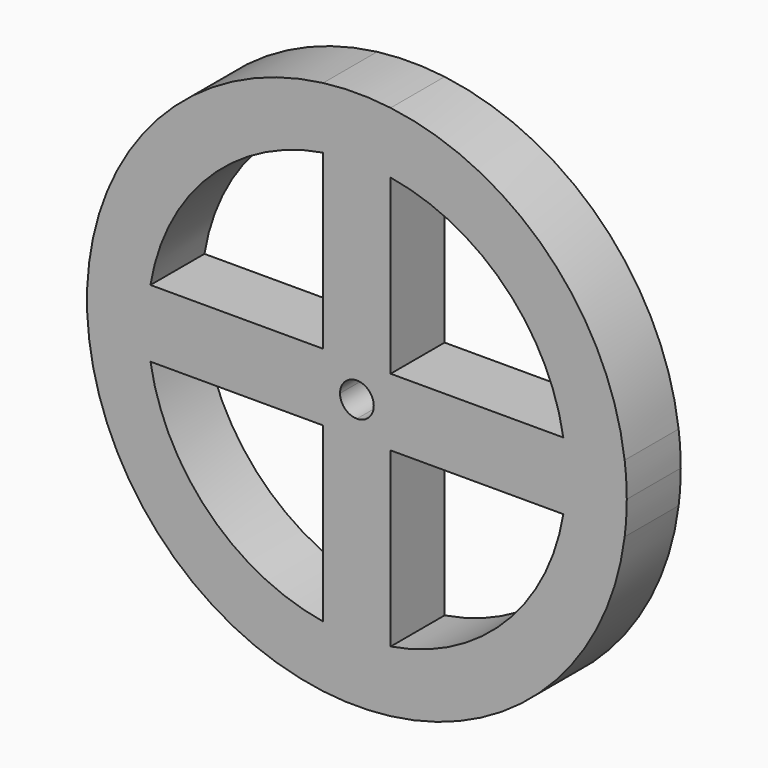
from build123d import *

# Parameters (mm, degrees)
F1_DEPTH = 10


with BuildPart() as f1:
    # F0 (on Front) → F1 (new body)
    with BuildSketch(Plane.XZ):
        with BuildLine():
            ThreePointArc((39.68627, -5), (39.92149, -2.504917), (40, 0))
            ThreePointArc((40, 0), (39.92149, 2.504917), (39.68627, 5))
            ThreePointArc((39.68627, 5), (28.284271, 28.284271), (5, 39.68627))
            ThreePointArc((5, 39.68627), (0, 40), (-5, 39.68627))
            ThreePointArc((-5, 39.68627), (-28.284271, 28.284271), (-39.68627, 5))
            ThreePointArc((-39.68627, 5), (-40, 0), (-39.68627, -5))
            ThreePointArc((-39.68627, -5), (-28.284271, -28.284271), (-5, -39.68627))
            ThreePointArc((-5, -39.68627), (0, -40), (5, -39.68627))
            ThreePointArc((5, -39.68627), (28.284271, -28.284271), (39.68627, -5))
        make_face()
        with BuildLine():
            ThreePointArc((-5, -30.594117), (-21.92031, -21.92031), (-30.594117, -5))
            Line((-30.594117, -5), (-5, -5))
            Line((-5, -5), (-5, -30.594117))
        make_face(mode=Mode.SUBTRACT)
        with BuildLine():
            Line((5, -30.594117), (5, -5))
            Line((5, -5), (30.594117, -5))
            ThreePointArc((30.594117, -5), (21.92031, -21.92031), (5, -30.594117))
        make_face(mode=Mode.SUBTRACT)
        with BuildLine():
            ThreePointArc((-30.594117, 5), (-21.92031, 21.92031), (-5, 30.594117))
            Line((-5, 30.594117), (-5, 5))
            Line((-5, 5), (-30.594117, 5))
        make_face(mode=Mode.SUBTRACT)
        with BuildLine():
            ThreePointArc((0, 2.5), (1.767767, 1.767767), (2.5, 0))
            ThreePointArc((2.5, 0), (1.767767, -1.767767), (0, -2.5))
            ThreePointArc((0, -2.5), (-1.767767, -1.767767), (-2.5, 0))
            ThreePointArc((-2.5, 0), (-1.767767, 1.767767), (0, 2.5))
        make_face(mode=Mode.SUBTRACT)
        with BuildLine():
            Line((30.594117, 5), (5, 5))
            Line((5, 5), (5, 30.594117))
            ThreePointArc((5, 30.594117), (21.92031, 21.92031), (30.594117, 5))
        make_face(mode=Mode.SUBTRACT)
    extrude(amount=F1_DEPTH)


solid = f1.part
